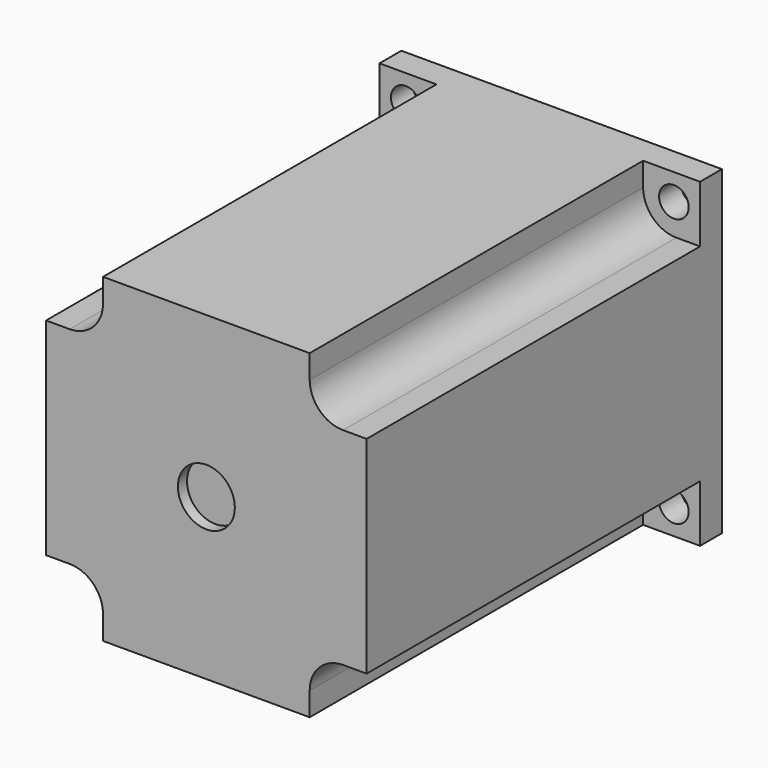
from build123d import *

# Parameters (mm, degrees)
SKETCH_W              = 56.3
SKETCH_H              = 78
PAD_DEPTH             = 28.15
PAD_DEPTH_BACK        = 28.15
POCKET_DEPTH          = 73.2
POLARPATTERN_COUNT    = 4
SKETCH002_R           = 2.6
POCKET001_DEPTH       = 5
POLARPATTERN001_COUNT = 4
SKETCH003_R           = 19.05
PAD001_DEPTH          = 1.6
SKETCH004_R           = 5
POCKET002_DEPTH       = 2
SKETCH005_R           = 5
POCKET003_DEPTH       = 2
SKETCH006_R           = 3.175
PAD002_DEPTH          = 100


with BuildPart() as part:
    # Sketch → Pad (new body, two sides)
    with BuildSketch(Plane.XY) as pad_sk:
        with Locations((0, 39)):
            Rectangle(SKETCH_W, SKETCH_H)
    extrude(amount=PAD_DEPTH)
    extrude(pad_sk.sketch, amount=-PAD_DEPTH_BACK)

    # Sketch001 → Pocket (cut)
    with BuildSketch(Plane.XZ):
        with BuildLine():
            Line((18.15, 28.15), (28.15, 28.15))
            Line((28.15, 28.15), (28.15, 18.15))
            Line((28.15, 18.15), (24.007864, 18.15))
            ThreePointArc((18.15, 24.007864), (19.865729, 19.865729), (24.007864, 18.15))
            Line((18.15, 24.007864), (18.15, 28.15))
        make_face()
    pocket = extrude(amount=-POCKET_DEPTH, mode=Mode.SUBTRACT)

    # PolarPattern: Pocket ×4 about axis
    polarpattern_axis = Axis((0, 0, 0), (0, -1, 0))
    for i in range(1, POLARPATTERN_COUNT):
        add(pocket.rotate(polarpattern_axis, i * 360 / POLARPATTERN_COUNT), mode=Mode.SUBTRACT)

    # Sketch002 → Pocket001 (cut)
    with BuildSketch(Plane(origin=(0, 78, 0), x_dir=(-1, 0, 0), z_dir=(0, 1, 0))):
        with Locations((23.55, 23.55)):
            Circle(SKETCH002_R)
    pocket001 = extrude(amount=-POCKET001_DEPTH, mode=Mode.SUBTRACT)

    # PolarPattern001: Pocket001 ×4 about axis
    polarpattern001_axis = Axis((0, 78, 0), (0, 1, 0))
    for i in range(1, POLARPATTERN001_COUNT):
        add(pocket001.rotate(polarpattern001_axis, i * 360 / POLARPATTERN001_COUNT), mode=Mode.SUBTRACT)

    # Sketch003 → Pad001 (new body)
    with BuildSketch(Plane(origin=(0, 78, 0), x_dir=(-1, 0, 0), z_dir=(0, 1, 0))):
        Circle(SKETCH003_R)
    extrude(amount=PAD001_DEPTH)

    # Sketch004 → Pocket002 (cut)
    with BuildSketch(Plane(origin=(0, 79.6, 0), x_dir=(-1, 0, 0), z_dir=(0, 1, 0))):
        Circle(SKETCH004_R)
    extrude(amount=-POCKET002_DEPTH, mode=Mode.SUBTRACT)

    # Sketch005 → Pocket003 (cut)
    with BuildSketch(Plane.XZ):
        Circle(SKETCH005_R)
    extrude(amount=-POCKET003_DEPTH, mode=Mode.SUBTRACT)

    # Sketch006 → Pad002 (new body)
    with BuildSketch(Plane.XZ.offset(-2)):
        Circle(SKETCH006_R)
    extrude(amount=-PAD002_DEPTH)


solid = part.part
